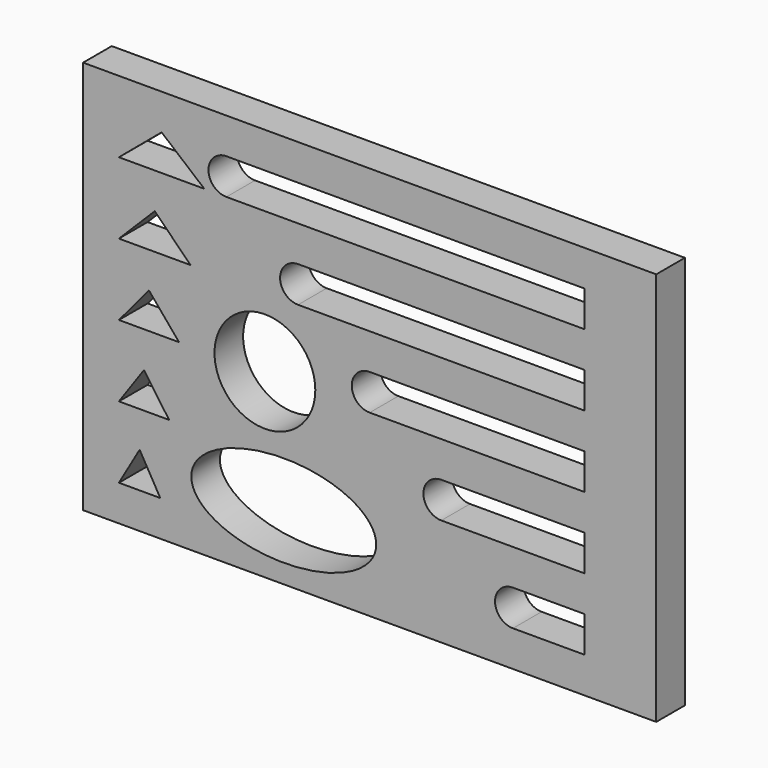
from build123d import *

# Parameters (mm, degrees)
F0_W     = 80
F0_H     = 55
F1_DEPTH = 5
F3_DEPTH = 25
F5_DEPTH = 10
F6_R     = 7.036386
F7_DEPTH = 10


with BuildPart() as f1:
    # F0 (on Front) → F1 (new body)
    with BuildSketch(Plane.XZ):
        with Locations((-6.038838, 10.438722)):
            Rectangle(F0_W, F0_H)
    extrude(amount=F1_DEPTH)

    # F2 (on face) → F3 (cut)
    with BuildSketch(Plane.XZ.offset(5)):
        with BuildLine():
            Line((13.961162, -12.061278), (23.961162, -12.061278))
            Line((23.961162, -12.061278), (23.961162, -7.061278))
            Line((23.961162, -7.061278), (13.961162, -7.061278))
            ThreePointArc((13.961162, -7.061278), (11.461162, -9.561278), (13.961162, -12.061278))
        make_face()
        with BuildLine():
            Line((3.961162, -2.061278), (23.961162, -2.061278))
            Line((23.961162, -2.061278), (23.961162, 2.938722))
            Line((23.961162, 2.938722), (3.961162, 2.938722))
            ThreePointArc((3.961162, 2.938722), (1.461162, 0.438722), (3.961162, -2.061278))
        make_face()
        with BuildLine():
            Line((-6.038838, 7.938722), (23.961162, 7.938722))
            Line((23.961162, 7.938722), (23.961162, 12.938722))
            Line((23.961162, 12.938722), (-6.038838, 12.938722))
            ThreePointArc((-6.038838, 12.938722), (-8.538838, 10.438722), (-6.038838, 7.938722))
        make_face()
        with BuildLine():
            Line((-16.038838, 17.938722), (23.961162, 17.938722))
            Line((23.961162, 17.938722), (23.961162, 22.938722))
            Line((23.961162, 22.938722), (-16.038838, 22.938722))
            ThreePointArc((-16.038838, 22.938722), (-18.538838, 20.438722), (-16.038838, 17.938722))
        make_face()
        with BuildLine():
            Line((-26.038838, 27.938722), (23.961162, 27.938722))
            Line((23.961162, 27.938722), (23.961162, 32.938722))
            Line((23.961162, 32.938722), (-26.038838, 32.938722))
            ThreePointArc((-26.038838, 32.938722), (-28.538838, 30.438722), (-26.038838, 27.938722))
        make_face()
    extrude(amount=-F3_DEPTH, mode=Mode.SUBTRACT)

    # F4 (on face) → F5 (cut)
    with BuildSketch(Plane.XZ.offset(5)):
        Polygon((-38.152087, -7.061278), (-41.038838, -12.061278), (-38.152087, -12.061278), (-35.265335, -12.061278), align=None)
        Polygon((-37.5378, 2.938722), (-41.038838, -2.061278), (-37.5378, -2.061278), (-34.036763, -2.061278), align=None)
        Polygon((-36.84334, 12.938722), (-41.038838, 7.938722), (-36.84334, 7.938722), (-32.647842, 7.938722), align=None)
        Polygon((-36.038838, 22.938722), (-41.038838, 17.938722), (-36.038838, 17.938722), (-31.038838, 17.938722), align=None)
        Polygon((-35.08007, 32.938722), (-41.038838, 27.938722), (-35.08007, 27.938722), (-29.121302, 27.938722), align=None)
    extrude(amount=-F5_DEPTH, mode=Mode.SUBTRACT)

    # F6 (on face) → F7 (cut)
    with BuildSketch(Plane.XZ.offset(5)):
        with Locations((-20.663561, 8.231624)):
            Circle(F6_R)
        with BuildLine():
            add(Edge.make_bspline(
                [(-5.122506, -7.988823), (-5.122506, 3.150482), (-24.485134, -2.419171), (-43.847762, -7.988823), (-24.485134, -13.558475), (-5.122506, -19.128127), (-5.122506, -7.988823)],
                knots=[0, 0, 0, 2.094395, 2.094395, 4.18879, 4.18879, 6.283185, 6.283185, 6.283185], degree=2, weights=[1, 0.5, 1, 0.5, 1, 0.5, 1]))
        make_face()
    extrude(amount=-F7_DEPTH, mode=Mode.SUBTRACT)


solid = f1.part
